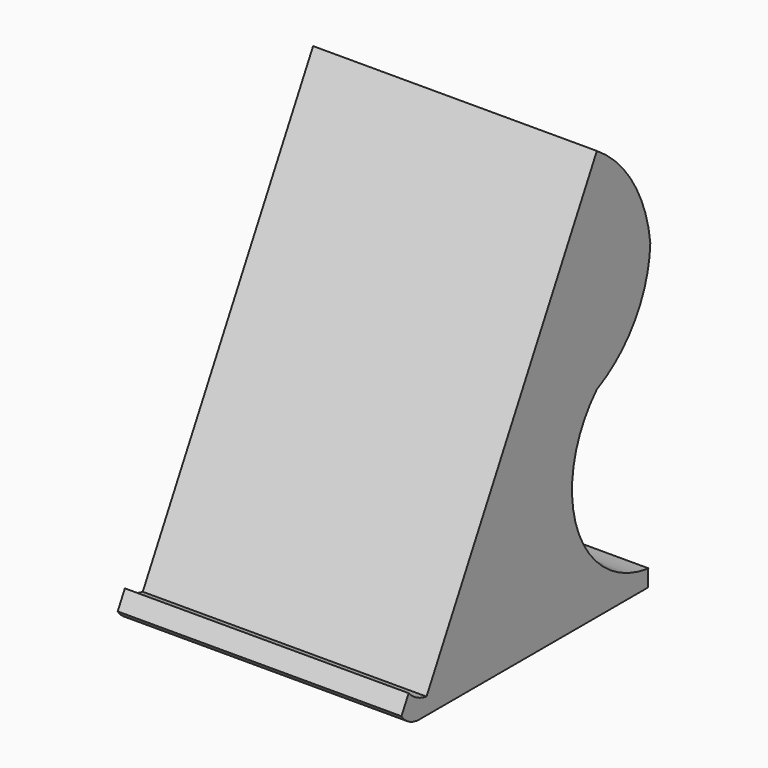
from build123d import *

# Parameters (mm, degrees)
F1_DEPTH = 149.86
F3_DEPTH = 149.86
F5_DEPTH = 149.86
F7_DEPTH = 149.86
F8_W     = 128.3415369689
F8_H     = 15.6382545829
F9_DEPTH = 124.714


with BuildPart() as f1:
    # F0 (on Right) → F1 (new body)
    with BuildSketch(Plane.YZ):
        with BuildLine():
            Line((44.2407907503, 110.8653195666), (-72.9446343889, -105.8618834673))
            Line((-72.9446343889, -105.8618834673), (39.9045087847, -105.8618834673))
            ThreePointArc((39.9045087847, -105.8618834673), (23.7226648403, -80.0116112868), (12.4027548979, -51.6929198598))
            ThreePointArc((12.4027548979, -51.6929198598), (16.7125207221, -18.6962392489), (44.2407907503, 0))
            ThreePointArc((44.2407907503, 0), (69.4384780949, 21.9062796628), (79.5394011802, 53.7304825436))
            ThreePointArc((79.5394011802, 53.7304825436), (68.2833280218, 86.247719056), (44.2407907503, 110.8653195666))
        make_face()
    extrude(amount=F1_DEPTH)

    # F2 (on face) → F3 (join)
    with BuildSketch(Plane.YZ.offset(149.86)):
        with BuildLine():
            ThreePointArc((-68.2184364909, -97.1210724816), (-74.6761266058, -94.9578371945), (-80.0221942177, -90.738724774))
            Line((-80.0221942177, -90.738724774), (-84.7749029282, -99.5285658693))
            ThreePointArc((-84.7749029282, -99.5285658693), (-79.6540711296, -104.1789354389), (-72.9446343889, -105.8618834673))
            Line((-72.9446343889, -105.8618834673), (-68.2184364909, -97.1210724816))
        make_face()
        with BuildLine():
            ThreePointArc((-50.4522174888, -64.2635481928), (-47.7805051422, -86.9400572359), (-68.2184364909, -97.1210724816))
            Line((-68.2184364909, -97.1210724816), (-72.9446343889, -105.8618834673))
            Line((-72.9446343889, -105.8618834673), (39.9045087847, -105.8618834673))
            ThreePointArc((39.9045087847, -105.8618834673), (23.7226648403, -80.0116112868), (12.4027548979, -51.6929198598))
            ThreePointArc((12.4027548979, -51.6929198598), (16.7125207221, -18.6962392489), (44.2407907503, 0))
            ThreePointArc((44.2407907503, 0), (69.4384780949, 21.9062796628), (79.5394011802, 53.7304825436))
            ThreePointArc((79.5394011802, 53.7304825436), (68.2833280218, 86.247719056), (44.2407907503, 110.8653195666))
            Line((44.2407907503, 110.8653195666), (-50.4522174888, -64.2635481928))
        make_face()
    extrude(amount=-F3_DEPTH)

    # F4 (on face) → F5 (join)
    with BuildSketch(Plane.YZ.offset(149.86)):
        with BuildLine():
            ThreePointArc((12.4027548979, -51.6929198598), (21.3713458152, -75.1942598568), (33.6986931702, -97.1210724816))
            Line((33.6986931702, -97.1210724816), (78.4184666755, -97.1210724816))
            ThreePointArc((78.4184666755, -97.1210724816), (31.1006677255, -59.1983474365), (44.2407907503, 0))
            ThreePointArc((44.2407907503, 0), (16.7125207221, -18.6962392489), (12.4027548979, -51.6929198598))
        make_face()
    extrude(amount=-F5_DEPTH)

    # F6 (on face) → F7 (join)
    with BuildSketch(Plane.YZ.offset(149.86)):
        with BuildLine():
            Line((78.0001431704, -97.1210724816), (33.6986931702, -97.1210724816))
            ThreePointArc((33.6986931702, -97.1210724816), (36.7329195442, -101.5402405334), (39.9045087847, -105.8618834673))
            Line((39.9045087847, -105.8618834673), (78.0001431704, -105.8618834673))
            Line((78.0001431704, -105.8618834673), (78.0001431704, -97.1210724816))
        make_face()
    extrude(amount=-F7_DEPTH)

    # F8 (on face) → F9 (cut)
    with BuildSketch(Plane(origin=(0, 78.0001431704, 0), x_dir=(-1, 0, 0), z_dir=(0, 1, 0))):
        with Locations((-73.2293818146, -85.6656767428)):
            Rectangle(F8_W, F8_H)
    extrude(amount=-F9_DEPTH, mode=Mode.SUBTRACT)


solid = f1.part
